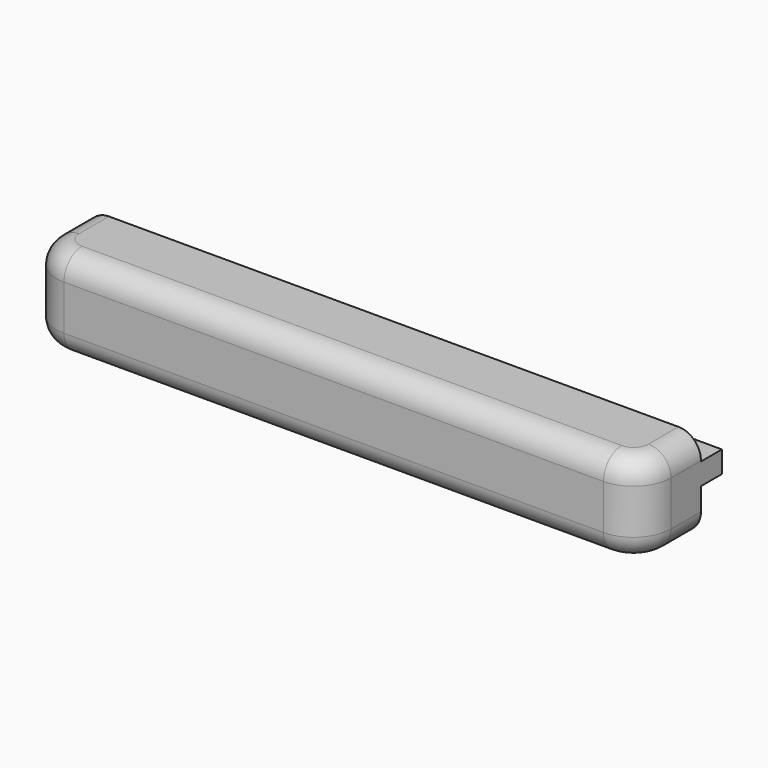
from build123d import *

# Parameters (mm, degrees)
F1_DEPTH = 41.5
F2_DEPTH = 40.5
F3_DEPTH = 3
F4_DEPTH = 0.1
F5_DEPTH = 3.5
F6_R     = 5
F7_R     = 3


with BuildPart() as f1:
    # F0 (on Right) → F1 (new body)
    with BuildSketch(Plane.YZ):
        Polygon((0, 9), (0, 0), (6.5, 0), (6.5, 3), (10, 3), (10, 5.8), (6.5, 5.8), (6.5, 9), align=None)
    extrude(amount=F1_DEPTH)

    # F2 (add): a face of the model
    f2_faces = [f1.faces().sort_by_distance(p)[0] for p in [
        (0, 3.9674231332, 4.4856515373),
    ]]
    extrude(f2_faces, amount=F2_DEPTH)

    # F3 (add): a face of the model
    f3_faces = [f1.faces().sort_by_distance(p)[0] for p in [
        (0.5, 3.25, 0),
    ]]
    extrude(f3_faces, amount=F3_DEPTH)

    # F4 (add): a face of the model
    f4_faces = [f1.faces().sort_by_distance(p)[0] for p in [
        (0.5, 8.25, 5.8),
    ]]
    extrude(f4_faces, amount=F4_DEPTH)

    # F5 (add): a face of the model
    f5_faces = [f1.faces().sort_by_distance(p)[0] for p in [
        (0.5, 0, 3),
    ]]
    extrude(f5_faces, amount=F5_DEPTH)

    # F6
    f6_edges = [f1.edges().sort_by_distance(p)[0] for p in [
        (41.5, -3.5, 3),
        (-40.5, -3.5, 3),
    ]]
    fillet(f6_edges, radius=F6_R)

    # F7
    f7_edges = [f1.edges().sort_by_distance(p)[0] for p in [
        (0.5, -3.5, 9),
        (0.5, -3.5, -3),
    ]]
    fillet(f7_edges, radius=F7_R)


solid = f1.part
